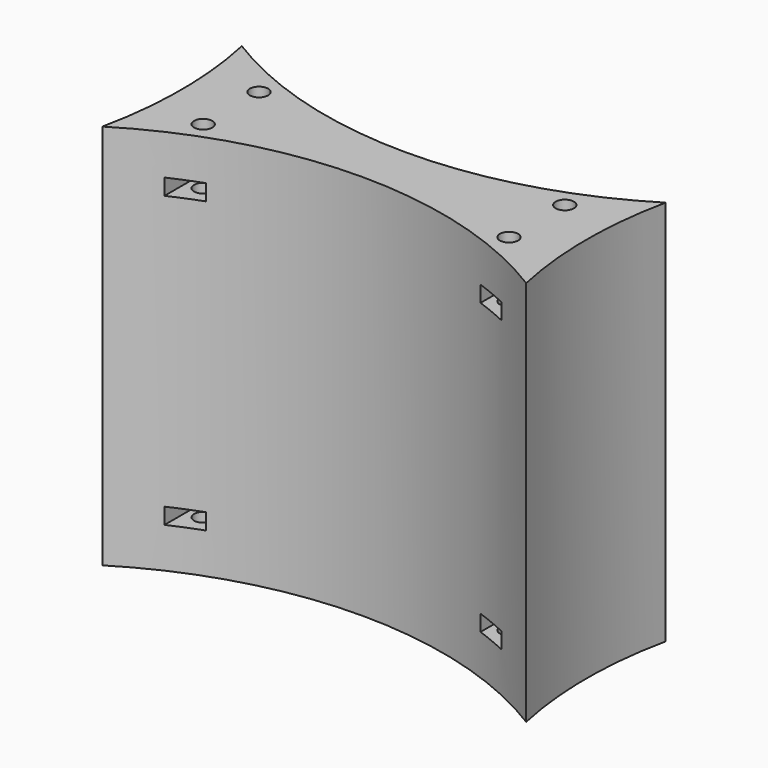
from build123d import *

# Parameters (mm, degrees)
PAD_DEPTH                                = 36
SKETCH001_R                              = 1.7
POCKET_DEPTH                             = 30
POCKET001_DEPTH                          = 1.5
POCKET001_MIRRORED_2_DEPTH               = 1.5
SKETCH001_MIRRORED_2_R                   = 1.7
POCKET_MIRRORED_2_DEPTH                  = 30
POCKET001_MIRRORED001_2_DEPTH            = 1.5
SKETCH001_MIRRORED001_2_R                = 1.7
POCKET_MIRRORED001_2_DEPTH               = 30
POCKET001_MIRRORED_2_MIRRORED001_2_DEPTH = 1.5
SKETCH001_MIRRORED_2_MIRRORED001_2_R     = 1.7
POCKET_MIRRORED_2_MIRRORED001_2_DEPTH    = 30


with BuildPart() as part:
    # Sketch → Pad (new body, symmetric)
    with BuildSketch(Plane.XY):
        with BuildLine():
            ThreePointArc((39.5, -16.244608), (0, -5), (-39.5, -16.244608))
            ThreePointArc((-39.5, -16.244608), (-37.772173, 0), (-39.5, 16.244608))
            ThreePointArc((-39.5, 16.244608), (0, 5), (39.5, 16.244608))
            ThreePointArc((39.5, 16.244608), (37.772173, 0), (39.5, -16.244608))
        make_face()
    extrude(amount=PAD_DEPTH, both=True)

    # Sketch001 (on Face6 of Pad) → Pocket (cut)
    with BuildSketch(Plane.XY.offset(36)):
        with Locations((28.5, -6.5)):
            Circle(SKETCH001_R)
    pocket = extrude(amount=-POCKET_DEPTH, mode=Mode.SUBTRACT)

    # Sketch002 (on DatumPlane) → Pocket001 (cut, symmetric)
    with BuildSketch(Plane.XY.offset(27)):
        Polygon((28.5, -3.15), (25.598815, -4.825), (25.598815, -14.825), (31.401185, -14.825), (31.401185, -4.825), align=None)
    pocket001 = extrude(amount=POCKET001_DEPTH, both=True, mode=Mode.SUBTRACT)

    # Sketch002 Mirrored 2 → Pocket001 Mirrored 2 (cut, symmetric)
    with BuildSketch(Plane(origin=(0, 0, 27), x_dir=(1, 0, 0), z_dir=(0, 0, -1))):
        Polygon((28.5, -3.15), (25.598815, -4.825), (25.598815, -14.825), (31.401185, -14.825), (31.401185, -4.825), align=None)
    pocket001_mirrored_2 = extrude(amount=-POCKET001_MIRRORED_2_DEPTH, both=True, mode=Mode.SUBTRACT)

    # Sketch001 Mirrored 2 → Pocket Mirrored 2 (cut)
    with BuildSketch(Plane(origin=(0, 0, 36), x_dir=(1, 0, 0), z_dir=(0, 0, -1))):
        with Locations((28.5, -6.5)):
            Circle(SKETCH001_MIRRORED_2_R)
    pocket_mirrored_2 = extrude(amount=POCKET_MIRRORED_2_DEPTH, mode=Mode.SUBTRACT)

    # Sketch002 Mirrored001 2 → Pocket001 Mirrored001 2 (cut, symmetric)
    with BuildSketch(Plane(origin=(0, 0, 27), x_dir=(-1, 0, 0), z_dir=(0, 0, -1))):
        Polygon((28.5, -3.15), (25.598815, -4.825), (25.598815, -14.825), (31.401185, -14.825), (31.401185, -4.825), align=None)
    pocket001_mirrored001_2 = extrude(amount=-POCKET001_MIRRORED001_2_DEPTH, both=True, mode=Mode.SUBTRACT)

    # Sketch001 Mirrored001 2 → Pocket Mirrored001 2 (cut)
    with BuildSketch(Plane(origin=(0, 0, 36), x_dir=(-1, 0, 0), z_dir=(0, 0, -1))):
        with Locations((28.5, -6.5)):
            Circle(SKETCH001_MIRRORED001_2_R)
    pocket_mirrored001_2 = extrude(amount=POCKET_MIRRORED001_2_DEPTH, mode=Mode.SUBTRACT)

    # Sketch002 Mirrored 2 Mirrored001 2 → Pocket001 Mirrored 2 Mirrored001 2 (cut, symmetric)
    with BuildSketch(Plane(origin=(0, 0, 27), x_dir=(-1, 0, 0), z_dir=(0, 0, 1))):
        Polygon((28.5, -3.15), (25.598815, -4.825), (25.598815, -14.825), (31.401185, -14.825), (31.401185, -4.825), align=None)
    pocket001_mirrored_2_mirrored001_2 = extrude(amount=POCKET001_MIRRORED_2_MIRRORED001_2_DEPTH, both=True, mode=Mode.SUBTRACT)

    # Sketch001 Mirrored 2 Mirrored001 2 → Pocket Mirrored 2 Mirrored001 2 (cut)
    with BuildSketch(Plane(origin=(0, 0, 36), x_dir=(-1, 0, 0), z_dir=(0, 0, 1))):
        with Locations((28.5, -6.5)):
            Circle(SKETCH001_MIRRORED_2_MIRRORED001_2_R)
    pocket_mirrored_2_mirrored001_2 = extrude(amount=-POCKET_MIRRORED_2_MIRRORED001_2_DEPTH, mode=Mode.SUBTRACT)

    # Mirrored002: Pocket001, Pocket, Pocket001 Mirrored 2, Pocket Mirrored 2, Pocket001 Mirrored001 2, Pocket Mirrored001 2, Pocket001 Mirrored 2 Mirrored001 2, Pocket Mirrored 2 Mirrored001 2 across XY
    add(pocket001.mirror(Plane.XY), mode=Mode.SUBTRACT)
    add(pocket.mirror(Plane.XY), mode=Mode.SUBTRACT)
    add(pocket001_mirrored_2.mirror(Plane.XY), mode=Mode.SUBTRACT)
    add(pocket_mirrored_2.mirror(Plane.XY), mode=Mode.SUBTRACT)
    add(pocket001_mirrored001_2.mirror(Plane.XY), mode=Mode.SUBTRACT)
    add(pocket_mirrored001_2.mirror(Plane.XY), mode=Mode.SUBTRACT)
    add(pocket001_mirrored_2_mirrored001_2.mirror(Plane.XY), mode=Mode.SUBTRACT)
    add(pocket_mirrored_2_mirrored001_2.mirror(Plane.XY), mode=Mode.SUBTRACT)


solid = part.part
